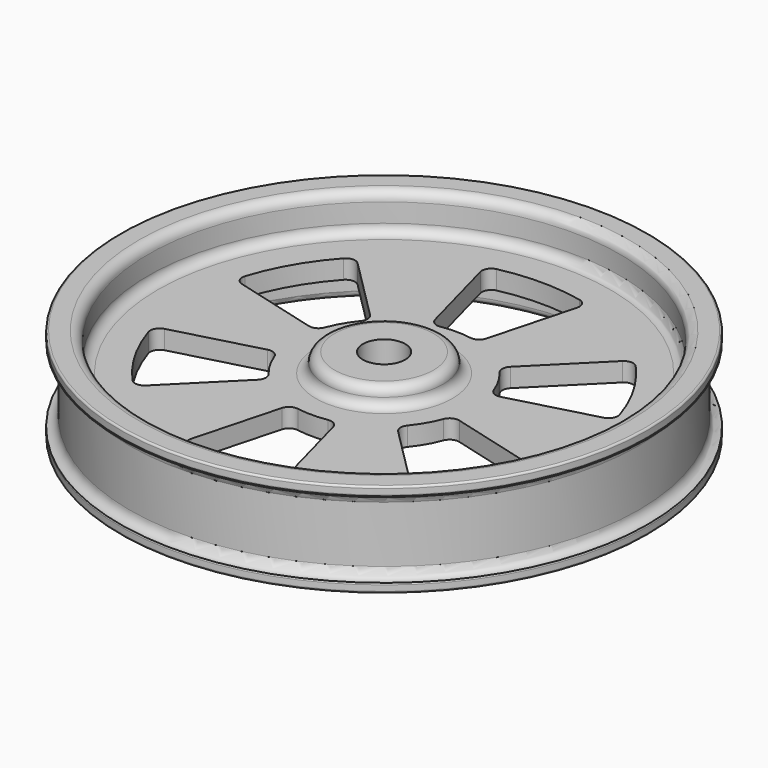
from build123d import *

# Parameters (mm, degrees)
F4_DEPTH = 2


with BuildPart() as f1:
    # F0 (on Front) → F1 (revolve)
    with BuildSketch(Plane.XZ):
        with BuildLine():
            Line((24, 1), (7.25, 1))
            ThreePointArc((7.25, 1), (6.542893, 1.292893), (6.25, 2))
            ThreePointArc((6.25, 2), (5.957107, 2.707107), (5.25, 3))
            Line((5.25, 3), (2.25, 3))
            Line((2.25, 3), (2.25, 1))
            Line((2.25, 1), (2.25, -1))
            Line((2.25, -1), (2.25, -2.505758))
            Line((2.25, -2.505758), (2.25, -3))
            Line((2.25, -3), (5.25, -3))
            ThreePointArc((5.25, -3), (5.957107, -2.707107), (6.25, -2))
            ThreePointArc((6.25, -2), (6.542893, -1.292893), (7.25, -1))
            Line((7.25, -1), (24, -1))
            ThreePointArc((24, -1), (24.707107, -1.292893), (25, -2))
            Line((25, -2), (25, -3))
            Line((25, -3), (25, -4.272114))
            ThreePointArc((25, -4.272114), (25.213193, -4.786807), (25.727886, -5))
            Line((25.727886, -5), (27.8, -5))
            ThreePointArc((27.8, -5), (27.941421, -4.941421), (28, -4.8))
            Line((28, -4.8), (28, -4.2))
            ThreePointArc((28, -4.2), (27.941421, -4.058579), (27.8, -4))
            Line((27.8, -4), (28, -4))
            ThreePointArc((28, -4), (27.292893, -3.707107), (27, -3))
            Line((27, -3), (27, -2))
            Line((27, -2), (27, 0))
            Line((27, 0), (27, 2))
            Line((27, 2), (27, 3))
            ThreePointArc((27, 3), (27.292893, 3.707107), (28, 4))
            Line((28, 4), (27.8, 4))
            ThreePointArc((27.8, 4), (27.941421, 4.058579), (28, 4.2))
            Line((28, 4.2), (28, 4.8))
            ThreePointArc((28, 4.8), (27.941421, 4.941421), (27.8, 5))
            Line((27.8, 5), (26, 5))
            ThreePointArc((26, 5), (25.292893, 4.707107), (25, 4))
            Line((25, 4), (25, 2))
            ThreePointArc((25, 2), (24.707107, 1.292893), (24, 1))
        make_face()
    revolve(axis=Axis((0, 0, 3.768777), (0, 0, -1)))

    # F3 (on face) → F4 (cut)
    with BuildSketch(Plane(origin=(0, 0, -1), x_dir=(1, 0, 0), z_dir=(0, 0, -1))):
        with BuildLine():
            ThreePointArc((4.383523, 20.417558), (0, 20.882815), (-4.383523, 20.417558))
            ThreePointArc((-4.383523, 20.417558), (-5.026786, 19.961465), (-5.139538, 19.181019))
            Line((-5.139538, 19.181019), (-2.72356, 10.164464))
            ThreePointArc((-2.72356, 10.164464), (-2.298084, 9.581907), (-1.591356, 9.437204))
            ThreePointArc((-1.591356, 9.437204), (0, 9.570436), (1.591356, 9.437204))
            ThreePointArc((1.591356, 9.437204), (2.298084, 9.581907), (2.72356, 10.164464))
            Line((2.72356, 10.164464), (5.139538, 19.181019))
            ThreePointArc((5.139538, 19.181019), (5.026786, 19.961465), (4.383523, 20.417558))
        make_face()
        with BuildLine():
            ThreePointArc((7.440904, 7.440904), (7.149133, 6.781152), (7.377181, 6.096757))
            ThreePointArc((7.377181, 6.096757), (8.28824, 4.785218), (8.968537, 3.340448))
            ThreePointArc((8.968537, 3.340448), (9.447217, 2.800755), (10.164464, 2.72356))
            Line((10.164464, 2.72356), (19.181019, 5.139538))
            ThreePointArc((19.181019, 5.139538), (19.800529, 5.627408), (19.873886, 6.412537))
            ThreePointArc((19.873886, 6.412537), (18.085048, 10.441408), (15.490363, 14.005022))
            ThreePointArc((15.490363, 14.005022), (14.773742, 14.334057), (14.04148, 14.04148))
            Line((14.04148, 14.04148), (7.440904, 7.440904))
        make_face()
        with BuildLine():
            ThreePointArc((10.164464, -2.72356), (9.447217, -2.800755), (8.968537, -3.340448))
            ThreePointArc((8.968537, -3.340448), (8.28824, -4.785218), (7.377181, -6.096757))
            ThreePointArc((7.377181, -6.096757), (7.149133, -6.781152), (7.440904, -7.440904))
            Line((7.440904, -7.440904), (14.04148, -14.04148))
            ThreePointArc((14.04148, -14.04148), (14.773742, -14.334057), (15.490363, -14.005022))
            ThreePointArc((15.490363, -14.005022), (18.085048, -10.441408), (19.873886, -6.412537))
            ThreePointArc((19.873886, -6.412537), (19.800529, -5.627408), (19.181019, -5.139538))
            Line((19.181019, -5.139538), (10.164464, -2.72356))
        make_face()
        with BuildLine():
            ThreePointArc((2.72356, -10.164464), (2.298084, -9.581907), (1.591356, -9.437204))
            ThreePointArc((1.591356, -9.437204), (0, -9.570436), (-1.591356, -9.437204))
            ThreePointArc((-1.591356, -9.437204), (-2.298084, -9.581907), (-2.72356, -10.164464))
            Line((-2.72356, -10.164464), (-5.139538, -19.181019))
            ThreePointArc((-5.139538, -19.181019), (-5.026786, -19.961465), (-4.383523, -20.417558))
            ThreePointArc((-4.383523, -20.417558), (0, -20.882815), (4.383523, -20.417558))
            ThreePointArc((4.383523, -20.417558), (5.026786, -19.961465), (5.139538, -19.181019))
            Line((5.139538, -19.181019), (2.72356, -10.164464))
        make_face()
        with BuildLine():
            ThreePointArc((-7.440904, -7.440904), (-7.149133, -6.781152), (-7.377181, -6.096757))
            ThreePointArc((-7.377181, -6.096757), (-8.28824, -4.785218), (-8.968537, -3.340448))
            ThreePointArc((-8.968537, -3.340448), (-9.447217, -2.800755), (-10.164464, -2.72356))
            Line((-10.164464, -2.72356), (-19.181019, -5.139538))
            ThreePointArc((-19.181019, -5.139538), (-19.800529, -5.627408), (-19.873886, -6.412537))
            ThreePointArc((-19.873886, -6.412537), (-18.085048, -10.441408), (-15.490363, -14.005022))
            ThreePointArc((-15.490363, -14.005022), (-14.773742, -14.334057), (-14.04148, -14.04148))
            Line((-14.04148, -14.04148), (-7.440904, -7.440904))
        make_face()
        with BuildLine():
            ThreePointArc((-10.164464, 2.72356), (-9.447217, 2.800755), (-8.968537, 3.340448))
            ThreePointArc((-8.968537, 3.340448), (-8.28824, 4.785218), (-7.377181, 6.096757))
            ThreePointArc((-7.377181, 6.096757), (-7.149133, 6.781152), (-7.440904, 7.440904))
            Line((-7.440904, 7.440904), (-14.04148, 14.04148))
            ThreePointArc((-14.04148, 14.04148), (-14.773742, 14.334057), (-15.490363, 14.005022))
            ThreePointArc((-15.490363, 14.005022), (-18.085048, 10.441408), (-19.873886, 6.412537))
            ThreePointArc((-19.873886, 6.412537), (-19.800529, 5.627408), (-19.181019, 5.139538))
            Line((-19.181019, 5.139538), (-10.164464, 2.72356))
        make_face()
    extrude(amount=-F4_DEPTH, mode=Mode.SUBTRACT)


solid = f1.part
